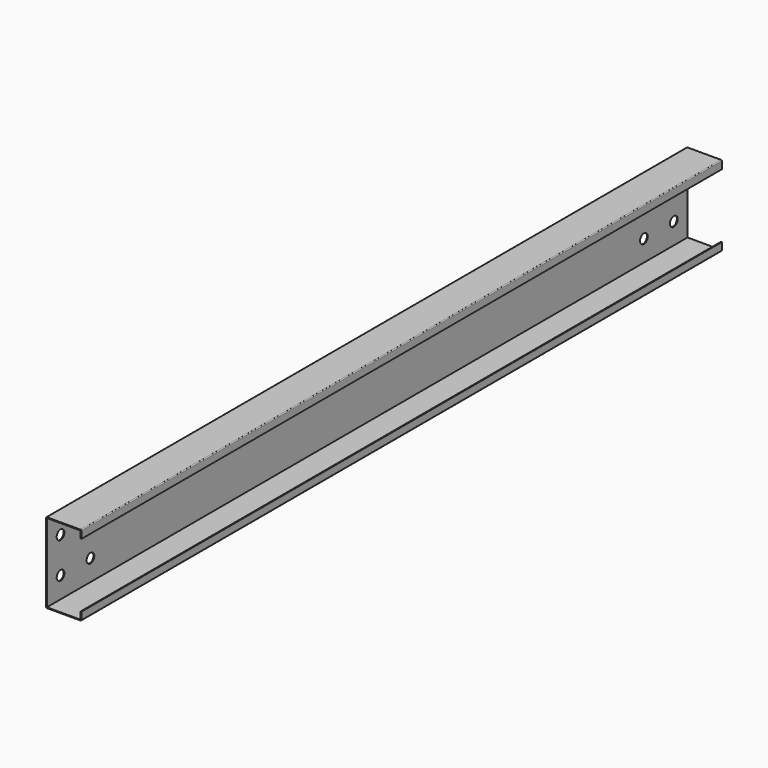
from build123d import *

# Parameters (mm, degrees)
F1_DEPTH = 1500
F2_R     = 1.5
F4_D     = 18


with BuildPart() as f1:
    # F0 (on Front) → F1 (new body)
    with BuildSketch(Plane.XZ):
        Polygon((5.458542, 61.221596), (6.958542, 61.057889), (6.958542, 76.057889), (-59.041458, 76.057889), (-59.041458, -73.942111), (6.958542, -73.942111), (6.958542, -58.942111), (5.458542, -58.942111), (5.458542, -72.442111), (-57.541458, -72.442111), (-57.541458, 74.557889), (5.458542, 74.557889), align=None)
    extrude(amount=-F1_DEPTH)

    # F2
    f2_edges = [f1.edges().sort_by_distance(p)[0] for p in [
        (-59.041458, 750, 76.057889),
        (6.958542, 750, 76.057889),
        (6.958542, 750, -73.942111),
        (-59.041458, 750, -73.942111),
    ]]
    fillet(f2_edges, radius=F2_R)

    # F4 (through all)
    with Locations(Plane.YZ.offset(-57.541458)):
        with Locations((32, 34.057889), (102, 34.057889), (31.999985, -32.942111), (102, -32.942111), (1468, 34.057889), (1398, 34.057889), (1398, -32.942111), (1468, -32.942111)):
            Hole(F4_D / 2)


solid = f1.part
